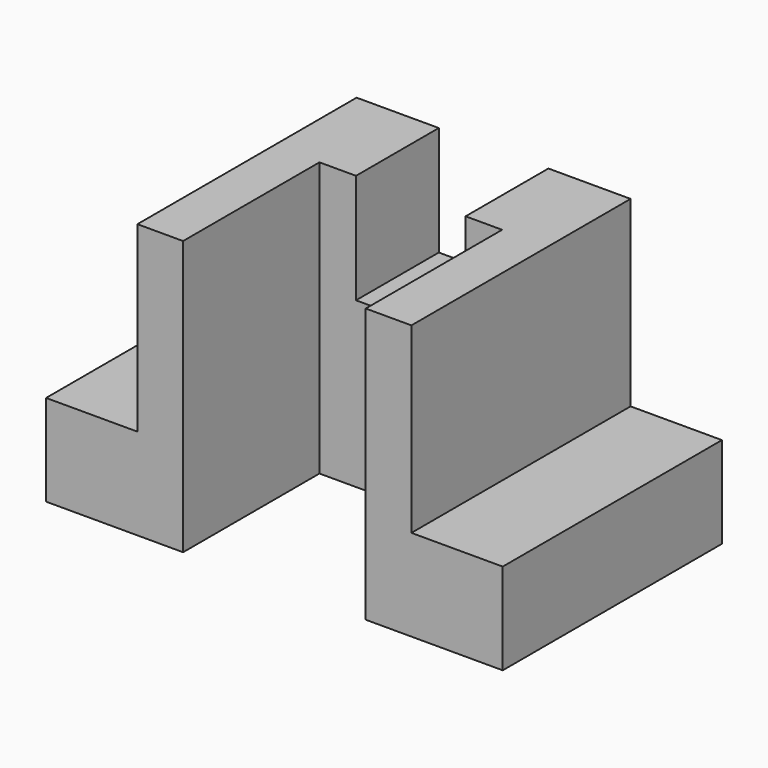
from build123d import *

# Parameters (mm, degrees)
F1_DEPTH = 45
F2_W     = 30
F2_H     = 28
F3_DEPTH = 45.001


with BuildPart() as f1:
    # F0 (on Front) → F1 (new body)
    with BuildSketch(Plane.XZ):
        Polygon((-37.5, 0), (0, 0), (37.5, 0), (37.5, 15), (22.5, 15), (22.5, 45), (9, 45), (9, 27), (-9, 27), (-9, 45), (-22.5, 45), (-22.5, 15), (-37.5, 15), align=None)
    extrude(amount=F1_DEPTH)

    # F2 (on face) → F3 (cut, through all)
    with BuildSketch(Plane.XY.offset(45)):
        with Locations((0, -31)):
            Rectangle(F2_W, F2_H)
    extrude(amount=-F3_DEPTH, mode=Mode.SUBTRACT)


solid = f1.part
